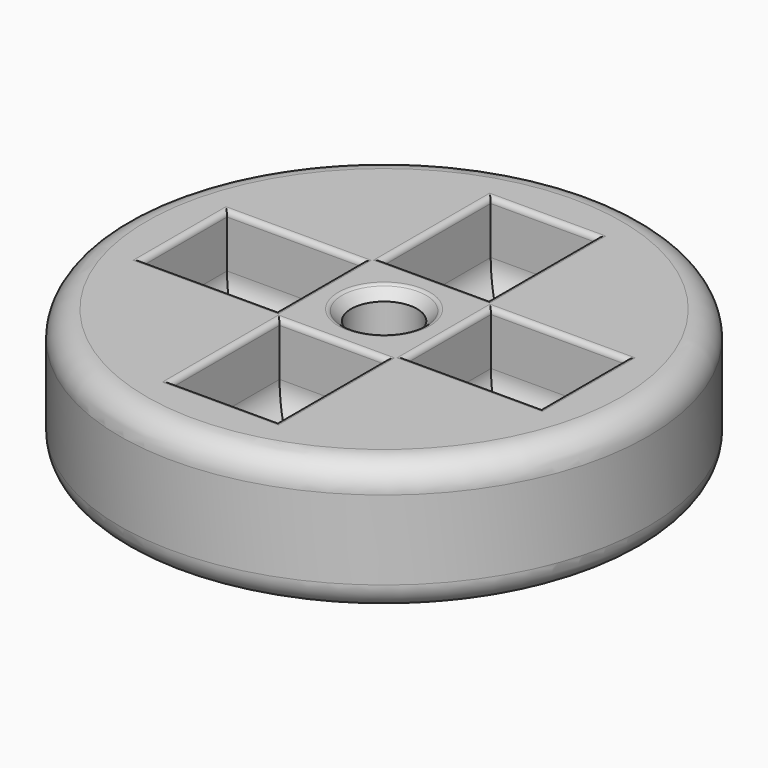
from build123d import *

# Parameters (mm, degrees)
F0_R     = 12.7
F1_DEPTH = 6.35
F2_R     = 1.5875
F3_DEPTH = 25.4
F4_R     = 1.27
F5_SIZE  = 0.508
F6_W     = 2.54
F6_H     = 6.477
F6_W_2   = 6.477
F6_H_2   = 5.08
F6_W_3   = 5.08
F7_DEPTH = 3.81
F8_R     = 1.27
F9_R     = 0.254


with BuildPart() as f1:
    # F0 (on Top) → F1 (new body)
    with BuildSketch(Plane.XY):
        Circle(F0_R)
    extrude(amount=F1_DEPTH)

    # F2 (on face) → F3 (cut)
    with BuildSketch(Plane.XY.offset(6.35)):
        Circle(F2_R)
    extrude(amount=-F3_DEPTH, mode=Mode.SUBTRACT)

    # F4
    f4_edges = [f1.edges().sort_by_distance(p)[0] for p in [
        (12.7, 0, 3.175),
        (-12.7, 0, 0),
        (-12.7, 0, 6.35),
    ]]
    fillet(f4_edges, radius=F4_R)

    # F5
    f5_edges = [f1.edges().sort_by_distance(p)[0] for p in [
        (-1.5875, 0, 6.35),
        (-1.5875, 0, 0),
    ]]
    chamfer(f5_edges, length=F5_SIZE)

    # F6 (on face) → F7 (cut)
    with BuildSketch(Plane.XY.offset(6.35)):
        with Locations((-1.27, 6.35)):
            Rectangle(F6_W, F6_H)
        with Locations((1.27, 6.35)):
            Rectangle(F6_W, F6_H)
        with Locations((-6.35, 0)):
            Rectangle(F6_W_2, F6_H_2)
        with Locations((0, -6.35)):
            Rectangle(F6_W_3, F6_H)
        with Locations((6.35, 0)):
            Rectangle(F6_W_2, F6_H_2)
    extrude(amount=-F7_DEPTH, mode=Mode.SUBTRACT)

    # F8
    f8_edges = [f1.edges().sort_by_distance(p)[0] for p in [
        (-2.54, -6.35, 2.54),
        (0, -9.5885, 2.54),
        (2.54, -6.35, 2.54),
        (0, -3.1115, 2.54),
        (6.35, -2.54, 2.54),
        (9.5885, 0, 2.54),
        (6.35, 2.54, 2.54),
        (3.1115, 0, 2.54),
        (-6.35, 2.54, 2.54),
        (-9.5885, 0, 2.54),
        (-6.35, -2.54, 2.54),
        (-3.1115, 0, 2.54),
        (0, 3.1115, 2.54),
        (2.54, 6.35, 2.54),
        (0, 9.5885, 2.54),
        (-2.54, 6.35, 2.54),
    ]]
    fillet(f8_edges, radius=F8_R)

    # F9
    f9_edges = [f1.edges().sort_by_distance(p)[0] for p in [
        (-11.43, 0, 6.35),
        (-2.54, -6.35, 6.35),
        (0, -9.5885, 6.35),
        (2.54, -6.35, 6.35),
        (0, -3.1115, 6.35),
        (-6.35, 2.54, 6.35),
        (-9.5885, 0, 6.35),
        (-6.35, -2.54, 6.35),
        (-3.1115, 0, 6.35),
        (-2.0955, 0, 6.35),
        (6.35, -2.54, 6.35),
        (9.5885, 0, 6.35),
        (6.35, 2.54, 6.35),
        (3.1115, 0, 6.35),
        (0, 3.1115, 6.35),
        (2.54, 6.35, 6.35),
        (0, 9.5885, 6.35),
        (-2.54, 6.35, 6.35),
    ]]
    fillet(f9_edges, radius=F9_R)


solid = f1.part
